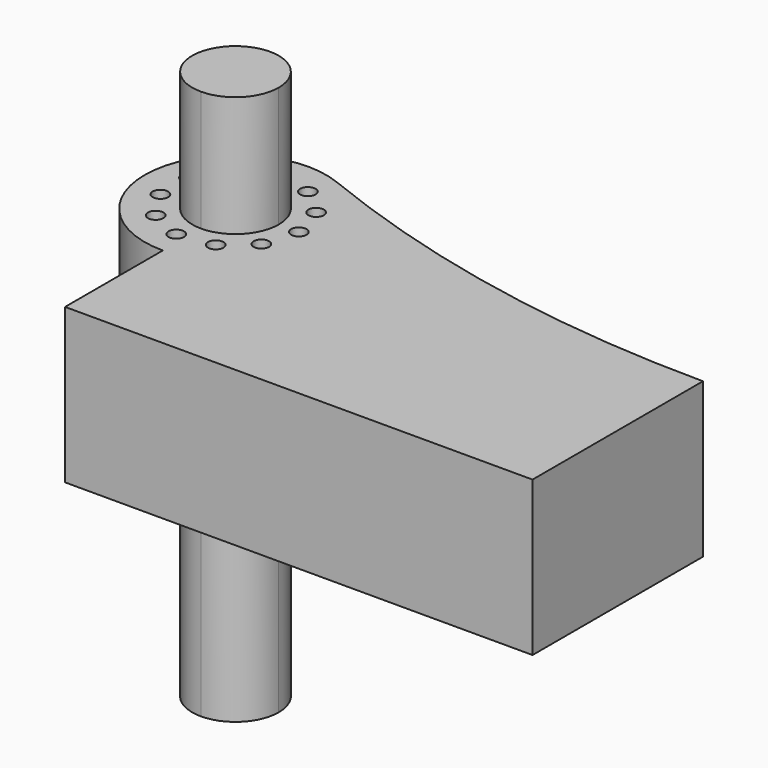
from build123d import *

# Parameters (mm, degrees)
F1_DEPTH = 25
F2_DEPTH = 89
F4_D     = 5
F5_DEPTH = 25


with BuildPart() as f1:
    # F0 (on Top) → F1 (new body)
    with BuildSketch(Plane.XY):
        with BuildLine():
            ThreePointArc((-64.6422651169, 61.7318101091), (-104.509721445, 40.0797605591), (-75.6510277108, 5.0740307461))
            Line((-75.6510277108, 5.0740307461), (-75.6510277108, 20.4725478984))
            ThreePointArc((-75.6510277108, 20.4725478984), (-85.5504441422, 44.3718533068), (-61.6511387339, 34.4724368753))
            Line((-61.6511387339, 34.4724368753), (-46.2526215815, 34.4724368753))
            ThreePointArc((-46.2526215815, 34.4724368753), (-51.279873074, 50.91363831), (-64.6422651169, 61.7318101091))
        make_face()
        with BuildLine():
            Line((-46.2526215815, 34.4724368753), (75.6510277108, 34.4724368753))
            ThreePointArc((75.6510277108, 34.4724368753), (4.192505753, 41.3504150705), (-64.6422651169, 61.7318101091))
            ThreePointArc((-64.6422651169, 61.7318101091), (-51.279873074, 50.91363831), (-46.2526215815, 34.4724368753))
        make_face()
        with BuildLine():
            Line((-75.6510277108, 20.4725478984), (-75.6510277108, 5.0740307461))
            ThreePointArc((-75.6510277108, 5.0740307461), (-54.8632153807, 13.6846245453), (-46.2526215815, 34.4724368753))
            Line((-46.2526215815, 34.4724368753), (-61.6511387339, 34.4724368753))
            ThreePointArc((-61.6511387339, 34.4724368753), (-65.7516112793, 24.5730204439), (-75.6510277108, 20.4725478984))
        make_face()
        with BuildLine():
            Line((-75.6510277108, -34.4724368753), (75.6510277108, -34.4724368753))
            Line((75.6510277108, -34.4724368753), (75.6510277108, 34.4724368753))
            Line((75.6510277108, 34.4724368753), (-46.2526215815, 34.4724368753))
            ThreePointArc((-46.2526215815, 34.4724368753), (-54.8632153807, 13.6846245453), (-75.6510277108, 5.0740307461))
            Line((-75.6510277108, 5.0740307461), (-75.6510277108, -34.4724368753))
        make_face()
    extrude(amount=F1_DEPTH)

    # F0 (on Top) → F2 (join, symmetric)
    with BuildSketch(Plane.XY):
        with BuildLine():
            ThreePointArc((-61.6511387339, 34.4724368753), (-85.5504441422, 44.3718533068), (-75.6510277108, 20.4725478984))
            Line((-75.6510277108, 20.4725478984), (-75.6510277108, 34.4724368753))
            Line((-75.6510277108, 34.4724368753), (-61.6511387339, 34.4724368753))
        make_face()
        with BuildLine():
            Line((-75.6510277108, 34.4724368753), (-75.6510277108, 20.4725478984))
            ThreePointArc((-75.6510277108, 20.4725478984), (-65.7516112793, 24.5730204439), (-61.6511387339, 34.4724368753))
            Line((-61.6511387339, 34.4724368753), (-75.6510277108, 34.4724368753))
        make_face()
    extrude(amount=F2_DEPTH, both=True)

    # F4 (through all)
    with Locations(Plane.XY.offset(25)):
        with Locations((-78.5690456042, 54.7676971151), (-67.133374486, 53.123495831), (-58.4019980838, 45.5577151106), (-55.1470667124, 34.4724368753), (-58.4019980838, 23.3871586401), (-67.133374486, 15.8213779197), (-78.5690456042, 14.1771766356), (-89.078266659, 18.9765770782), (-95.32443422, 28.6958035179), (-95.32443422, 40.2490702328), (-89.078266659, 49.9682966725)):
            Hole(F4_D / 2)

    # F5 (add): a face of the model
    f5_faces = [f1.faces().sort_by_distance(p)[0] for p in [
        (-9.2870203621, 6.9469719562, 25),
    ]]
    extrude(f5_faces, amount=F5_DEPTH)


solid = f1.part
